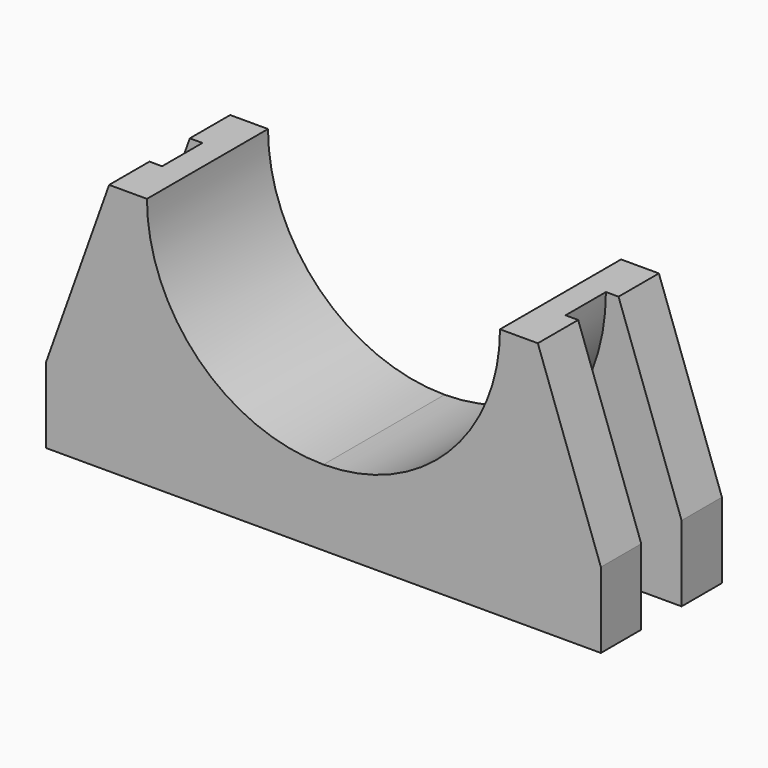
from build123d import *

# Parameters (mm, degrees)
F1_DEPTH = 150
F3_DEPTH = 50


with BuildPart() as f1:
    # F0 (on Front) → F1 (new body, symmetric)
    with BuildSketch(Plane.XZ):
        with BuildLine():
            ThreePointArc((0, -350), (-247.487373, -247.487373), (-350, 0))
            Line((-350, 0), (-425, 0))
            Line((-425, 0), (-550, -350))
            Line((-550, -350), (-550, -500))
            Line((-550, -500), (0, -500))
            Line((0, -500), (0, -350))
        make_face()
        with BuildLine():
            ThreePointArc((350, 0), (247.487373, -247.487373), (0, -350))
            Line((0, -350), (0, -500))
            Line((0, -500), (550, -500))
            Line((550, -500), (550, -350))
            Line((550, -350), (425, 0))
            Line((425, 0), (350, 0))
        make_face()
    extrude(amount=F1_DEPTH, both=True)

    # F2 (on Front) → F3 (cut, symmetric)
    with BuildSketch(Plane.XZ):
        with BuildLine():
            ThreePointArc((400, 0), (0, -400), (-400, 0))
            Line((-400, 0), (-425, 0))
            Line((-425, 0), (-550, -350))
            Line((-550, -350), (-550, -500))
            Line((-550, -500), (550, -500))
            Line((550, -500), (550, -350))
            Line((550, -350), (425, 0))
            Line((425, 0), (400, 0))
        make_face()
    extrude(amount=F3_DEPTH, both=True, mode=Mode.SUBTRACT)


solid = f1.part
